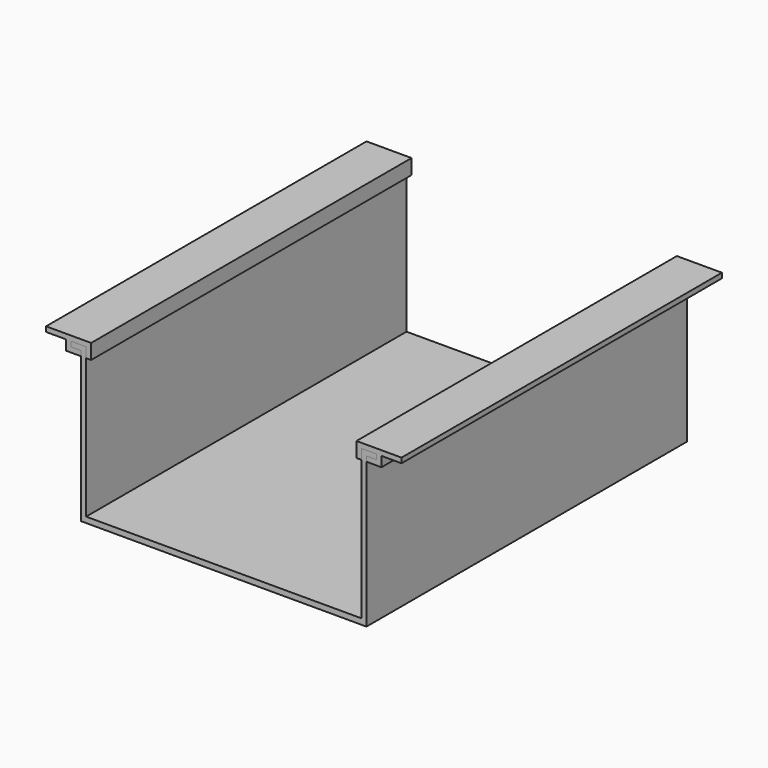
from build123d import *

# Parameters (mm, degrees)
F0_W          = 4
F0_H          = 2
F0_W_2        = 2
F0_W_3        = 8
F1_DEPTH      = 80
F1_DEPTH_BACK = 80
F0_W_4        = 110
F0_H_2        = 2.270985
F2_DEPTH      = 80
F2_DEPTH_BACK = 80


with BuildPart() as f1:
    # F0 (on Front) → F1 (new body, two sides)
    with BuildSketch(Plane.XZ) as f1_sk:
        Polygon((55, 32.988115), (55, 30.988115), (61, 30.988115), (63, 30.988115), (71, 30.988115), (71, 32.988115), align=None)
        Polygon((63, 30.988115), (61, 30.988115), (61, 28.988115), (61, 26.988115), (63, 26.988115), align=None)
        with Locations((59, 27.988115)):
            Rectangle(F0_W, F0_H)
        Polygon((55, 28.988115), (55, 30.988115), (55, 32.988115), (53, 32.988115), (53, 26.988115), (55, 26.988115), align=None)
        Polygon((-55, 28.988115), (-55, 26.988115), (-53, 26.988115), (-53, 32.988115), (-55, 32.988115), (-55, 30.988115), align=None)
        Polygon((-57, 30.988115), (-55, 30.988115), (-55, 32.988115), (-61, 32.988115), (-61, 30.988115), align=None)
        with Locations((-62, 31.988115)):
            Rectangle(F0_W_2, F0_H)
        with Locations((-62, 29.988115)):
            Rectangle(F0_W_2, F0_H)
        Polygon((-63, 26.988115), (-57, 26.988115), (-57, 28.988115), (-61, 28.988115), (-63, 28.988115), align=None)
        with Locations((-67, 31.988115)):
            Rectangle(F0_W_3, F0_H)
    extrude(amount=F1_DEPTH)
    extrude(f1_sk.sketch, amount=-F1_DEPTH_BACK)


with BuildPart() as f2:
    # F0 (on Front) → F2 (new body, two sides)
    with BuildSketch(Plane.XZ) as f2_sk:
        Polygon((61, 30.988115), (55, 30.988115), (55, 28.988115), (57, 28.988115), (61, 28.988115), align=None)
        Polygon((57, 28.988115), (55, 28.988115), (55, 26.988115), (55, -28.7409), (55, -31.011885), (57, -31.011885), (57, 26.988115), align=None)
        with Locations((0, -29.876393)):
            Rectangle(F0_W_4, F0_H_2)
        Polygon((-55, -31.011885), (-55, -28.7409), (-55, 26.988115), (-55, 28.988115), (-57, 28.988115), (-57, 26.988115), (-57, -31.011885), align=None)
        with Locations((-59, 29.988115)):
            Rectangle(F0_W, F0_H)
        with Locations((-56, 29.988115)):
            Rectangle(F0_W_2, F0_H)
    extrude(amount=F2_DEPTH)
    extrude(f2_sk.sketch, amount=-F2_DEPTH_BACK)


solid = Compound([f1.part, f2.part])
